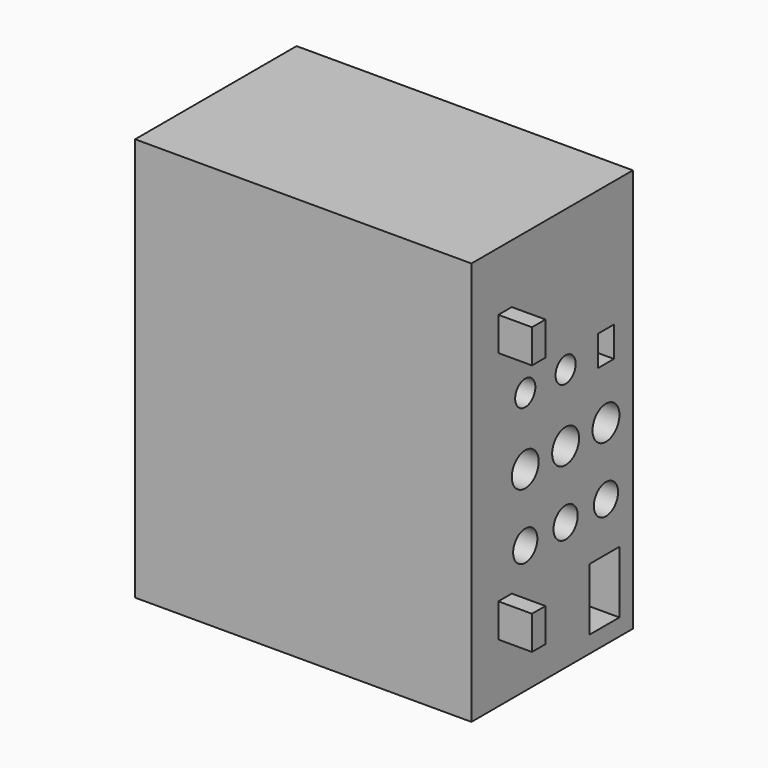
from build123d import *

# Parameters (mm, degrees)
F0_W     = 254
F0_H     = 304.8
F1_DEPTH = 152.4
F2_W     = 12.7
F2_H     = 25.4
F3_DEPTH = 25.4
F4_R     = 12.7
F4_R_2   = 11.43
F4_W     = 28.194
F4_H     = 46.99
F4_W_2   = 14.986
F4_H_2   = 22.86
F4_R_3   = 9.525
F5_DEPTH = 25.4


with BuildPart() as f1:
    # F0 (on Front) → F1 (new body)
    with BuildSketch(Plane.XZ):
        Rectangle(F0_W, F0_H)
    extrude(amount=F1_DEPTH)

    # F2 (on face) → F3 (join)
    with BuildSketch(Plane.YZ.offset(127)):
        with Locations((-120.65, 95.25)):
            Rectangle(F2_W, F2_H)
        with Locations((-120.65, -95.25)):
            Rectangle(F2_W, F2_H)
    extrude(amount=F3_DEPTH)

    # F4 (on face) → F5 (cut)
    with BuildSketch(Plane.YZ.offset(127)):
        with Locations((-101.6, -5.08)):
            Circle(F4_R)
        with Locations((-63.5, -5.08)):
            Circle(F4_R)
        with Locations((-25.4, -5.08)):
            Circle(F4_R)
        with Locations((-101.6, -55.88)):
            Circle(F4_R_2)
        with Locations((-63.5, -55.88)):
            Circle(F4_R_2)
        with Locations((-25.4, -55.88)):
            Circle(F4_R_2)
        with Locations((-26.797, -116.205)):
            Rectangle(F4_W, F4_H)
        with Locations((-25.4, 45.72)):
            Rectangle(F4_W_2, F4_H_2)
        with Locations((-101.6, 45.72)):
            Circle(F4_R_3)
        with Locations((-63.5, 45.72)):
            Circle(F4_R_3)
    extrude(amount=-F5_DEPTH, mode=Mode.SUBTRACT)


solid = f1.part
